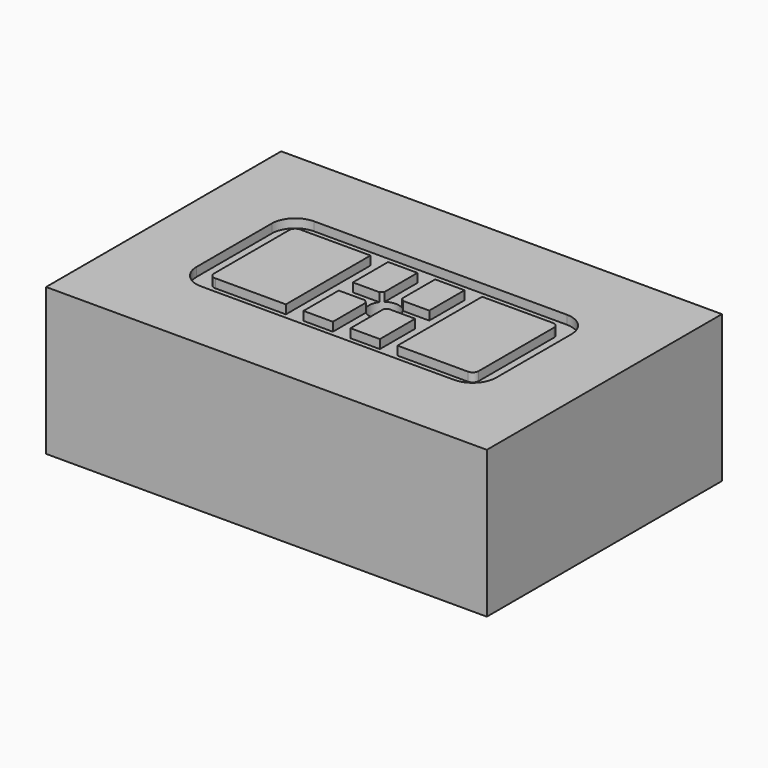
from build123d import *

# Parameters (mm, degrees)
F0_W     = 75
F0_H     = 50
F1_DEPTH = 25
F2_W     = 5
F2_H     = 7.5
F3_DEPTH = 1.5
F4_R     = 2.5
F5_DEPTH = 15


with BuildPart() as f1:
    # F0 (on Top) → F1 (new body)
    with BuildSketch(Plane.XY):
        Rectangle(F0_W, F0_H)
    extrude(amount=F1_DEPTH)

    # F2 (on face) → F3 (cut)
    with BuildSketch(Plane.XY.offset(25)):
        with BuildLine():
            Line((-21.5, -12), (21.5, -12))
            ThreePointArc((21.5, -12), (24.328427, -10.828427), (25.5, -8))
            Line((25.5, -8), (25.5, 8))
            ThreePointArc((25.5, 8), (24.328427, 10.828427), (21.5, 12))
            Line((21.5, 12), (-21.5, 12))
            ThreePointArc((-21.5, 12), (-24.328427, 10.828427), (-25.5, 8))
            Line((-25.5, 8), (-25.5, -8))
            ThreePointArc((-25.5, -8), (-24.328427, -10.828427), (-21.5, -12))
        make_face()
        with Locations((-4, -5.25)):
            Rectangle(F2_W, F2_H, mode=Mode.SUBTRACT)
        with Locations((4, -5.25)):
            Rectangle(F2_W, F2_H, mode=Mode.SUBTRACT)
        with BuildLine():
            Line((-9.5, 9), (-9.5, -9))
            Line((-9.5, -9), (-21.5, -9))
            ThreePointArc((-21.5, -9), (-22.207107, -8.707107), (-22.5, -8))
            Line((-22.5, -8), (-22.5, 8))
            ThreePointArc((-22.5, 8), (-22.207107, 8.707107), (-21.5, 9))
            Line((-21.5, 9), (-9.5, 9))
        make_face(mode=Mode.SUBTRACT)
        with Locations((-4, 5.25)):
            Rectangle(F2_W, F2_H, mode=Mode.SUBTRACT)
        with Locations((4, 5.25)):
            Rectangle(F2_W, F2_H, mode=Mode.SUBTRACT)
        with BuildLine():
            ThreePointArc((22.5, -8), (22.207107, -8.707107), (21.5, -9))
            Line((21.5, -9), (9.5, -9))
            Line((9.5, -9), (9.5, 9))
            Line((9.5, 9), (21.5, 9))
            ThreePointArc((21.5, 9), (22.207107, 8.707107), (22.5, 8))
            Line((22.5, 8), (22.5, -8))
        make_face(mode=Mode.SUBTRACT)
    extrude(amount=-F3_DEPTH, mode=Mode.SUBTRACT)

    # F4 (on face) → F5 (cut)
    with BuildSketch(Plane.XY.offset(25)):
        Circle(F4_R)
    extrude(amount=-F5_DEPTH, mode=Mode.SUBTRACT)


solid = f1.part
